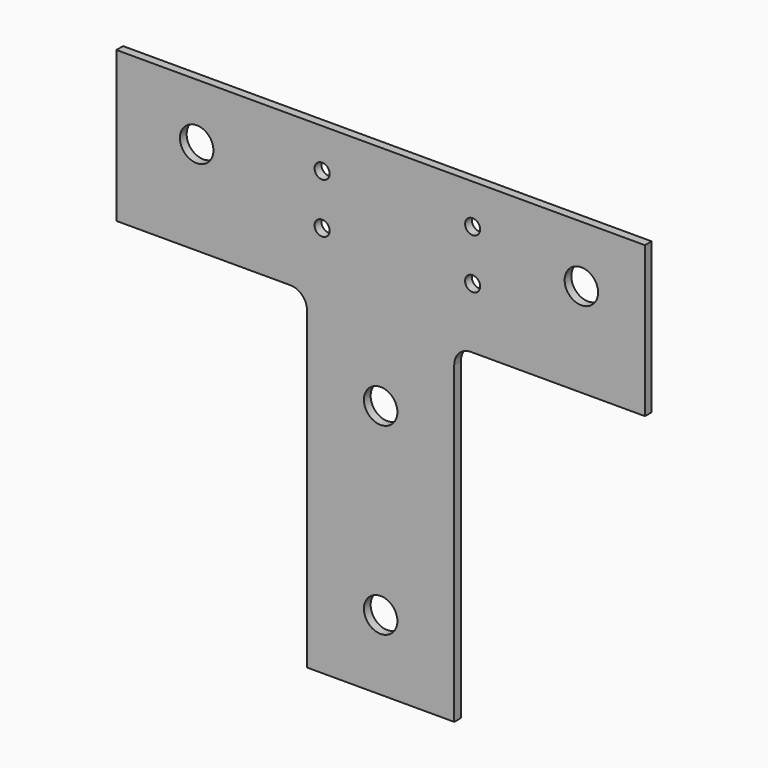
from build123d import *

# Parameters (mm, degrees)
F0_R     = 5
F0_R_2   = 2.25
F1_DEPTH = 2.5
F2_R     = 5


with BuildPart() as f1:
    # F0 (on Front) → F1 (new body)
    with BuildSketch(Plane.XZ):
        Polygon((22, 49.5), (79, 49.5), (79, 94.5), (-79, 94.5), (-79, 49.5), (-22, 49.5), (-22, -49.5), (22, -49.5), align=None)
        with Locations((0, -28.5)):
            Circle(F0_R, mode=Mode.SUBTRACT)
        with Locations((-55, 77.5)):
            Circle(F0_R, mode=Mode.SUBTRACT)
        with Locations((-17.5, 67.621634)):
            Circle(F0_R_2, mode=Mode.SUBTRACT)
        with Locations((-17.5, 82.621634)):
            Circle(F0_R_2, mode=Mode.SUBTRACT)
        with Locations((0, 26.5)):
            Circle(F0_R, mode=Mode.SUBTRACT)
        with Locations((27.5, 67.621634)):
            Circle(F0_R_2, mode=Mode.SUBTRACT)
        with Locations((27.5, 82.621634)):
            Circle(F0_R_2, mode=Mode.SUBTRACT)
        with Locations((60, 77.5)):
            Circle(F0_R, mode=Mode.SUBTRACT)
    extrude(amount=F1_DEPTH)

    # F2
    f2_edges = [f1.edges().sort_by_distance(p)[0] for p in [
        (22, -1.25, 49.5),
        (-22, -1.25, 49.5),
    ]]
    fillet(f2_edges, radius=F2_R)


solid = f1.part
